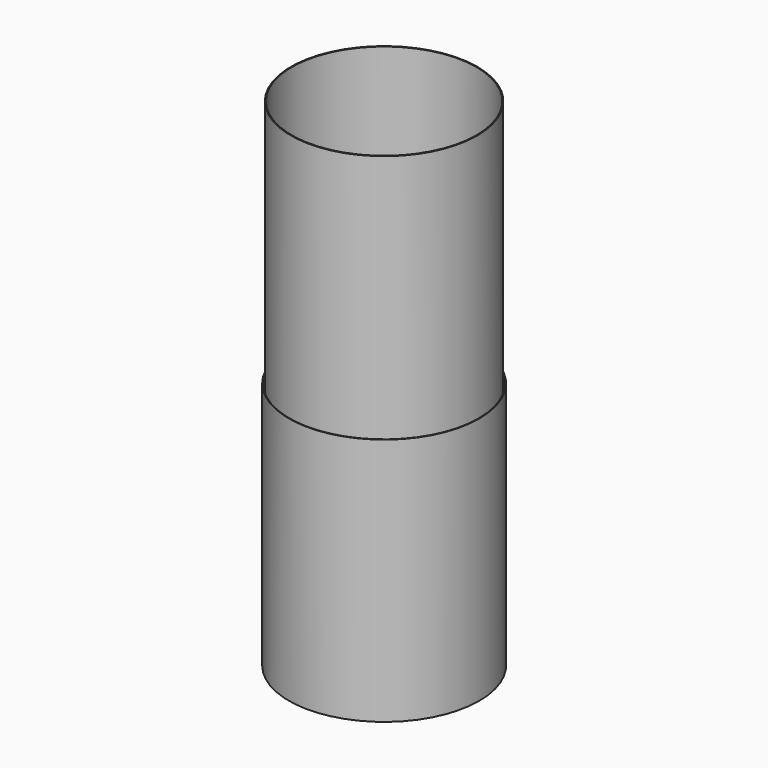
from build123d import *

# Parameters (mm, degrees)
F0_R     = 230
F0_R_2   = 228.5
F1_DEPTH = 600
F2_R     = 222
F3_DEPTH = 2
F4_R     = 228
F4_R_2   = 226
F5_DEPTH = 30
F6_R     = 225
F6_R_2   = 223
F7_DEPTH = 1200


with BuildPart() as f1:
    # F0 (on Top) → F1 (new body)
    with BuildSketch(Plane.XY):
        Circle(F0_R)
        Circle(F0_R_2, mode=Mode.SUBTRACT)
    extrude(amount=F1_DEPTH)


with BuildPart() as f3:
    # F2 (on Top) → F3 (new body)
    with BuildSketch(Plane.XY):
        Circle(F2_R)
    extrude(amount=F3_DEPTH)


with BuildPart() as f5:
    # F4 (on Top) → F5 (new body)
    with BuildSketch(Plane.XY):
        Circle(F4_R)
        Circle(F4_R_2, mode=Mode.SUBTRACT)
    extrude(amount=F5_DEPTH)


with BuildPart() as f7:
    # F6 (on Top) → F7 (new body)
    with BuildSketch(Plane.XY):
        Circle(F6_R)
        Circle(F6_R_2, mode=Mode.SUBTRACT)
    extrude(amount=F7_DEPTH)


solid = Compound([f1.part, f3.part, f5.part, f7.part])
